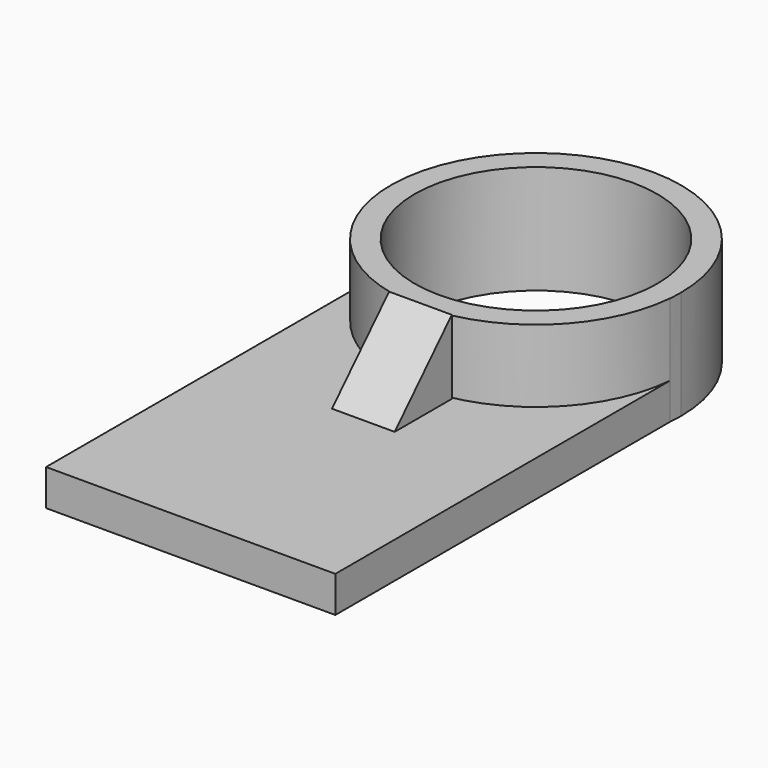
from build123d import *

# Parameters (mm, degrees)
F0_R     = 44.245933
F1_DEPTH = 39.624
F2_DEPTH = 13.208
F4_DEPTH = 11.43


with BuildPart() as f1:
    # F0 (on Top) → F1 (new body)
    with BuildSketch(Plane.XY):
        with BuildLine():
            ThreePointArc((52.940541, 78.661576), (-2.374099, 131.548857), (-52.72761, 73.918154))
            ThreePointArc((-52.72761, 73.918154), (0, 25.721035), (52.72761, 73.918154))
            ThreePointArc((52.72761, 73.918154), (52.887282, 76.287477), (52.940541, 78.661576))
        make_face()
        with Locations((0, 78.661576)):
            Circle(F0_R, mode=Mode.SUBTRACT)
    extrude(amount=F1_DEPTH)

    # F0 (on Top) → F2 (join)
    with BuildSketch(Plane.XY):
        with BuildLine():
            Line((-52.72761, 73.918154), (-52.72761, -78.661576))
            Line((-52.72761, -78.661576), (52.72761, -78.661576))
            Line((52.72761, -78.661576), (52.72761, 73.918154))
            ThreePointArc((52.72761, 73.918154), (0, 25.721035), (-52.72761, 73.918154))
        make_face()
    extrude(amount=F2_DEPTH)

    # F3 (on Right) → F4 (join, symmetric)
    with BuildSketch(Plane.YZ):
        Polygon((26.024748, 13.373829), (26.024748, 40.362455), (0, 13.373829), align=None)
    extrude(amount=F4_DEPTH, both=True)


solid = f1.part
